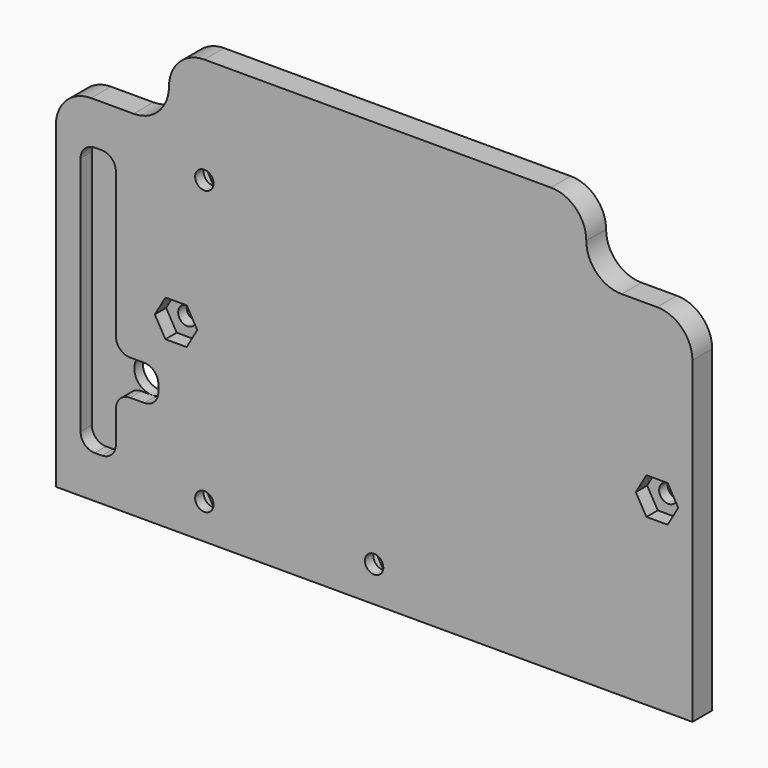
from build123d import *

# Parameters (mm, degrees)
F1_DEPTH  = 4.445
F2_R      = 1.651
F3_DEPTH  = 4.446
F4_R      = 1.651
F5_DEPTH  = 4.446
F7_DEPTH  = 2.54
F9_DEPTH  = 2.54
F10_R     = 3.175
F11_DEPTH = 4.446
F13_DEPTH = 2.54


with BuildPart() as f1:
    # F0 (on Front) → F1 (new body)
    with BuildSketch(Plane.XZ):
        with BuildLine():
            Line((33.804538, 40.817322), (-28.425462, 40.817322))
            ThreePointArc((-28.425462, 40.817322), (-32.91559, 38.95745), (-34.775462, 34.467322))
            ThreePointArc((-34.775462, 34.467322), (-36.635334, 29.977194), (-41.125462, 28.117322))
            Line((-41.125462, 28.117322), (-48.745462, 28.117322))
            ThreePointArc((-48.745462, 28.117322), (-53.23559, 26.25745), (-55.095462, 21.767322))
            Line((-55.095462, 21.767322), (-55.095462, -35.382678))
            Line((-55.095462, -35.382678), (59.204538, -35.382678))
            Line((59.204538, -35.382678), (59.204538, 21.767322))
            ThreePointArc((59.204538, 21.767322), (57.344666, 26.25745), (52.854538, 28.117322))
            Line((52.854538, 28.117322), (46.504538, 28.117322))
            ThreePointArc((46.504538, 28.117322), (42.01441, 29.977194), (40.154538, 34.467322))
            ThreePointArc((40.154538, 34.467322), (38.294666, 38.95745), (33.804538, 40.817322))
        make_face()
    extrude(amount=F1_DEPTH)

    # F2 (on face) → F3 (cut, through all)
    with BuildSketch(Plane.XZ.offset(4.445)):
        with Locations((-28.425462, -29.032678)):
            Circle(F2_R)
        with Locations((2.054538, -29.032678)):
            Circle(F2_R)
        with Locations((-28.425462, 21.767322)):
            Circle(F2_R)
    extrude(amount=-F3_DEPTH, mode=Mode.SUBTRACT)

    # F4 (on face) → F5 (cut, through all)
    with BuildSketch(Plane.XZ.offset(4.445)):
        with Locations((-33.505462, -2.362678)):
            Circle(F4_R)
        with Locations((52.854538, -2.362678)):
            Circle(F4_R)
    extrude(amount=-F5_DEPTH, mode=Mode.SUBTRACT)

    # F6 (on face) → F7 (cut)
    with BuildSketch(Plane.XZ.offset(4.445)):
        Polygon((-29.695462, -2.362678), (-31.600462, 0.936879), (-35.410462, 0.936879), (-37.315462, -2.362678), (-35.410462, -5.662235), (-31.600462, -5.662235), align=None)
        Polygon((54.759538, 0.936879), (50.949538, 0.936879), (49.044538, -2.362678), (50.949538, -5.662235), (54.759538, -5.662235), (56.664538, -2.362678), align=None)
    extrude(amount=-F7_DEPTH, mode=Mode.SUBTRACT)

    # F8 (on face) → F9 (cut)
    with BuildSketch(Plane(origin=(0, 0, 0), x_dir=(-1, 0, 0), z_dir=(0, 1, 0))):
        Polygon((30.330462, 18.467765), (32.235462, 21.767322), (30.330462, 25.066879), (26.520462, 25.066879), (24.615462, 21.767322), (26.520462, 18.467765), align=None)
        Polygon((32.235462, -29.032678), (30.330462, -25.733121), (26.520462, -25.733121), (24.615462, -29.032678), (26.520462, -32.332235), (30.330462, -32.332235), align=None)
        Polygon((-0.149538, -25.733121), (-3.959538, -25.733121), (-5.864538, -29.032678), (-3.959538, -32.332235), (-0.149538, -32.332235), (1.755462, -29.032678), align=None)
    extrude(amount=-F9_DEPTH, mode=Mode.SUBTRACT)

    # F10 (on face) → F11 (cut, through all)
    with BuildSketch(Plane(origin=(0, 0, 0), x_dir=(-1, 0, 0), z_dir=(0, 1, 0))):
        with Locations((39.855462, -13.792678)):
            Circle(F10_R)
    extrude(amount=-F11_DEPTH, mode=Mode.SUBTRACT)

    # F12 (on face) → F13 (cut)
    with BuildSketch(Plane.XZ.offset(4.445)):
        with BuildLine():
            Line((-46.840462, 20.497322), (-48.110462, 20.497322))
            ThreePointArc((-48.110462, 20.497322), (-49.906513, 19.753373), (-50.650462, 17.957322))
            Line((-50.650462, 17.957322), (-50.650462, -10.617678))
            Line((-50.650462, -10.617678), (-50.650462, -16.967678))
            Line((-50.650462, -16.967678), (-50.650462, -25.222678))
            ThreePointArc((-50.650462, -25.222678), (-49.906513, -27.018729), (-48.110462, -27.762678))
            Line((-48.110462, -27.762678), (-46.840462, -27.762678))
            ThreePointArc((-46.840462, -27.762678), (-45.044411, -27.018729), (-44.300462, -25.222678))
            Line((-44.300462, -25.222678), (-44.300462, -19.507678))
            ThreePointArc((-44.300462, -19.507678), (-43.556513, -17.711627), (-41.760462, -16.967678))
            Line((-41.760462, -16.967678), (-39.220462, -16.967678))
            ThreePointArc((-39.220462, -16.967678), (-37.424411, -16.223729), (-36.680462, -14.427678))
            Line((-36.680462, -14.427678), (-36.680462, -13.157678))
            ThreePointArc((-36.680462, -13.157678), (-37.424411, -11.361627), (-39.220462, -10.617678))
            Line((-39.220462, -10.617678), (-41.760462, -10.617678))
            ThreePointArc((-41.760462, -10.617678), (-43.556513, -9.873729), (-44.300462, -8.077678))
            Line((-44.300462, -8.077678), (-44.300462, 17.957322))
            ThreePointArc((-44.300462, 17.957322), (-45.044411, 19.753373), (-46.840462, 20.497322))
        make_face()
    extrude(amount=-F13_DEPTH, mode=Mode.SUBTRACT)


solid = f1.part
